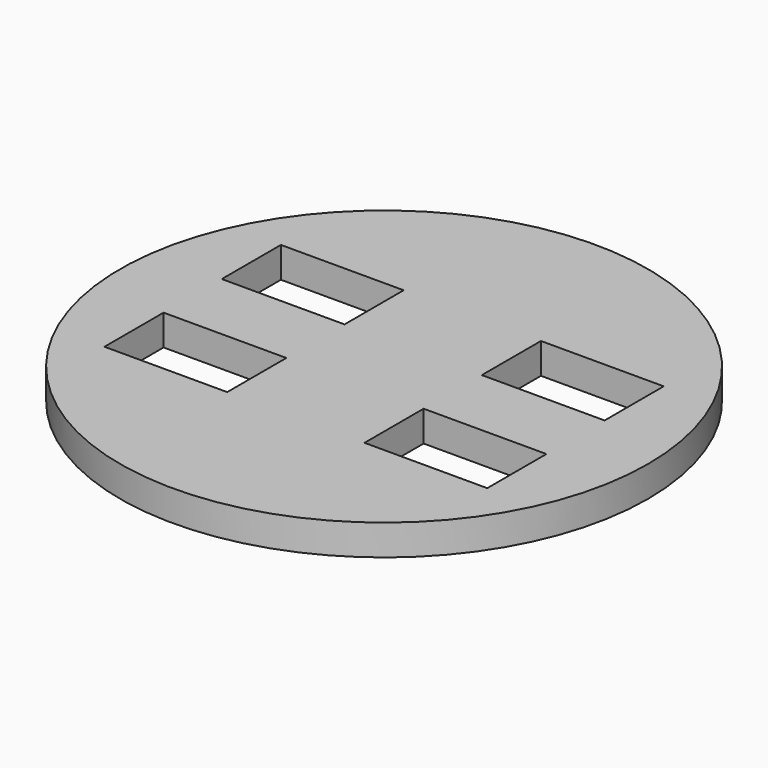
from build123d import *

# Parameters (mm, degrees)
F0_R     = 21.5
F0_W     = 10
F0_H     = 6.020403
F1_DEPTH = 2.5


with BuildPart() as f1:
    # F0 (on Top) → F1 (new body)
    with BuildSketch(Plane.XY):
        Circle(F0_R)
        with Locations((-10.591081, -5.972431)):
            Rectangle(F0_W, F0_H, mode=Mode.SUBTRACT)
        with Locations((10.591081, -5.972431)):
            Rectangle(F0_W, F0_H, mode=Mode.SUBTRACT)
        with Locations((-10.591081, 5.972431)):
            Rectangle(F0_W, F0_H, mode=Mode.SUBTRACT)
        with Locations((10.591081, 5.972431)):
            Rectangle(F0_W, F0_H, mode=Mode.SUBTRACT)
    extrude(amount=F1_DEPTH)


solid = f1.part
